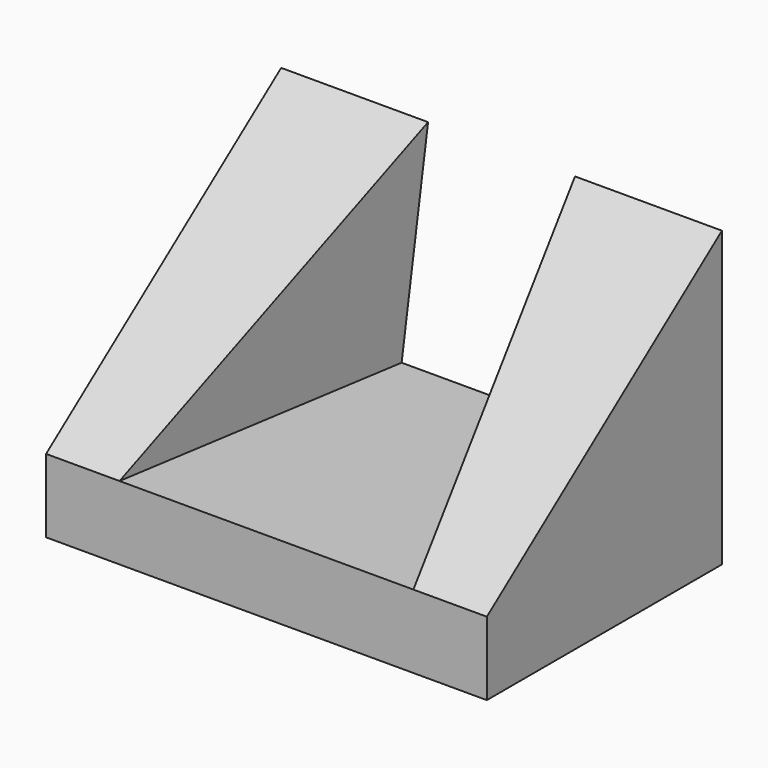
from build123d import *

# Parameters (mm, degrees)
F1_DEPTH  = 40
F3_DEPTH  = 60
F5_DEPTH  = 40
F7_DEPTH  = 40
F8_W      = 10
F8_H      = 10
F9_DEPTH  = 40
F10_W     = 10
F10_H     = 10
F11_DEPTH = 40


with BuildPart() as f1:
    # F0 (on Front) → F1 (new body)
    with BuildSketch(Plane.XZ):
        Polygon((0, 40), (0, 0), (60, 0), (60, 40), (40, 40), (40, 10), (20, 10), (20, 40), align=None)
    extrude(amount=F1_DEPTH)

    # F2 (on face) → F3 (cut)
    with BuildSketch(Plane.YZ.offset(60)):
        Polygon((-40, 10), (0, 40), (-40, 40), align=None)
    extrude(amount=-F3_DEPTH, mode=Mode.SUBTRACT)

    # F4 (on face) → F5 (cut)
    with BuildSketch(Plane(origin=(0, -19.2, 25.6), x_dir=(1, 0, 0), z_dir=(0, -0.6, 0.8))):
        Polygon((20, -26), (20, 24), (10, -26), align=None)
    extrude(amount=-F5_DEPTH, mode=Mode.SUBTRACT)

    # F6 (on face) → F7 (cut)
    with BuildSketch(Plane(origin=(0, -19.2, 25.6), x_dir=(1, 0, 0), z_dir=(0, -0.6, 0.8))):
        Polygon((50, -26), (40, 24), (40, -26), align=None)
    extrude(amount=-F7_DEPTH, mode=Mode.SUBTRACT)

    # F8 (on face) → F9 (join)
    with BuildSketch(Plane.XZ.offset(40)):
        with Locations((15, 5)):
            Rectangle(F8_W, F8_H)
    extrude(amount=-F9_DEPTH)

    # F10 (on face) → F11 (join)
    with BuildSketch(Plane.XZ.offset(40)):
        with Locations((45, 5)):
            Rectangle(F10_W, F10_H)
    extrude(amount=-F11_DEPTH)


solid = f1.part
